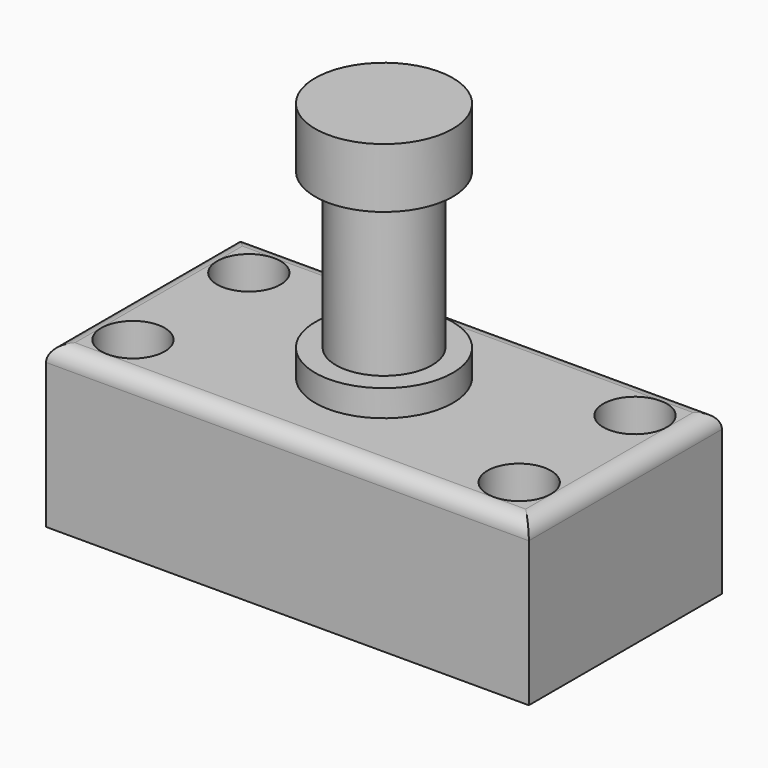
from build123d import *

# Parameters (mm, degrees)
F0_W     = 76.2
F0_H     = 38.1
F1_DEPTH = 25.4
F2_R     = 5.013158
F3_DEPTH = 25.4
F4_R     = 10.86406
F5_DEPTH = 38.1
F6_R     = 2.54
F7_W     = 18.654424
F7_H     = 24.483934


with BuildPart() as f1:
    # F0 (on Top) → F1 (new body)
    with BuildSketch(Plane.XY):
        Rectangle(F0_W, F0_H)
    extrude(amount=F1_DEPTH)

    # F2 (on Top) → F3 (cut)
    with BuildSketch(Plane.XY):
        with Locations((-30.48, -11.43)):
            Circle(F2_R)
        with Locations((30.48, -11.43)):
            Circle(F2_R)
        with Locations((30.48, 11.43)):
            Circle(F2_R)
        with Locations((-30.48, 11.43)):
            Circle(F2_R)
    extrude(amount=F3_DEPTH, mode=Mode.SUBTRACT)

    # F4 (on face) → F5 (join)
    with BuildSketch(Plane.XY.offset(25.4)):
        Circle(F4_R)
    extrude(amount=F5_DEPTH)

    # F6
    f6_edges = [f1.edges().sort_by_distance(p)[0] for p in [
        (0, 19.05, 25.4),
        (-38.1, 0, 25.4),
        (0, -19.05, 25.4),
        (38.1, 0, 25.4),
    ]]
    fillet(f6_edges, radius=F6_R)

    # F7 (on Front) → F8 (revolve, cut)
    with BuildSketch(Plane.XZ):
        with Locations((16.905574, 41.826721)):
            Rectangle(F7_W, F7_H)
    revolve(axis=Axis((0, 0, 25.4), (0, 0, -1)), mode=Mode.SUBTRACT)


solid = f1.part
